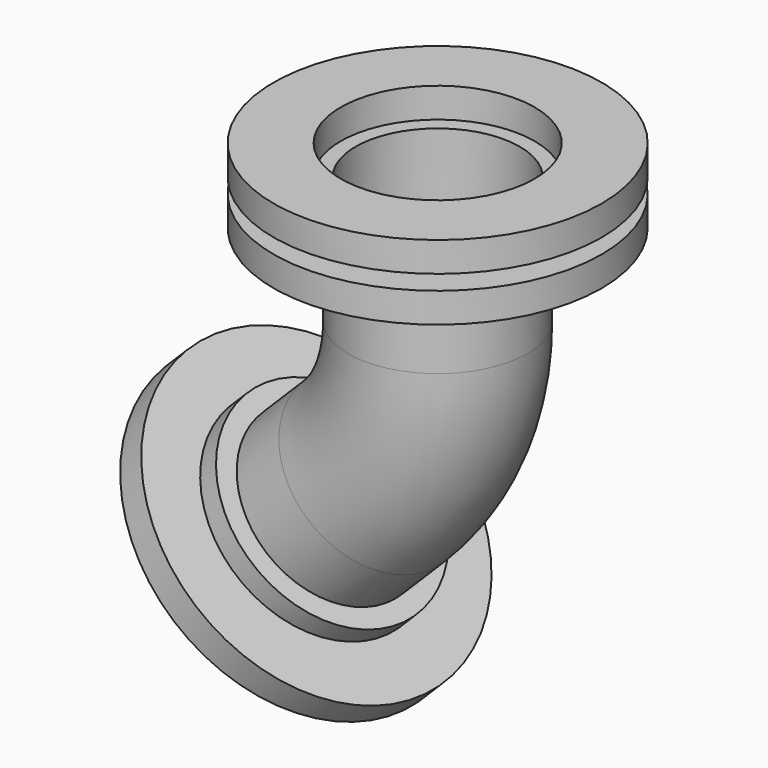
from build123d import *

# Parameters (mm, degrees)
F0_R      = 76.2
F0_R_2    = 69.85
F1_DEPTH  = 19.05
F2_R      = 139.7
F2_R_2    = 92.7084880465
F2_R_3    = 76.2
F2_R_4    = 69.85
F3_DEPTH  = 25.4
F4_DEPTH  = 19.05
F9_ANGLE  = 135
F10_R     = 82.55
F10_R_2   = 69.85
F11_DEPTH = 12.7
F12_R     = 139.7
F12_R_2   = 82.55
F13_DEPTH = 25.4


with BuildPart() as f1:
    # F0 (on Top) → F1 (new body)
    with BuildSketch(Plane.XY):
        Circle(F0_R)
        Circle(F0_R_2, mode=Mode.SUBTRACT)
    extrude(amount=F1_DEPTH)

    # F2 (on face) → F3 (join)
    with BuildSketch(Plane.XY.offset(19.05)):
        Circle(F2_R)
        Circle(F2_R_2, mode=Mode.SUBTRACT)
        Circle(F2_R_2)
        Circle(F2_R_3, mode=Mode.SUBTRACT)
        Circle(F2_R_3)
        Circle(F2_R_4, mode=Mode.SUBTRACT)
    extrude(amount=F3_DEPTH)

    # F2 (on face) → F4 (join)
    with BuildSketch(Plane.XY.offset(19.05)):
        Circle(F2_R_2)
        Circle(F2_R_3, mode=Mode.SUBTRACT)
    extrude(amount=-F4_DEPTH)


with BuildPart() as f6:
    # F6: sweep along a path in F5
    with BuildLine(Plane.XZ) as f6_path:
        Line((-89.8025612107, -216.8025612107), (-53.9362862445, -180.9362862445))
        ThreePointArc((-53.9362862445, -180.9362862445), (-14.017584088, -121.193726559), (0, -50.722572489))
        Line((0, -50.722572489), (0, 0))
    # F0 (on Top) → F6 (sweep)
    with BuildSketch(Plane.XY):
        Circle(F0_R)
        Circle(F0_R_2, mode=Mode.SUBTRACT)
    sweep(path=f6_path.line)


with BuildPart() as f8_1:
    # F8: copy of F1
    add(f1.part.moved(Location((-89.8025612107, 0, -216.8025612107))))


with BuildPart() as f8_1_1:
    # F9: moved
    add(f8_1.part.rotate(Axis((-89.8025612107, -171.9250977039, -216.8025612107), (0, -1, 0)), F9_ANGLE))


with BuildPart() as f1_1:
    add(f1.part)

    add(f6.part)  # F11 merges F6

    add(f8_1_1.part)  # F11 merges F8_1
    # F10 (on face) → F11 (join)
    with BuildSketch(Plane.XY.offset(44.45)):
        Circle(F10_R)
        Circle(F10_R_2, mode=Mode.SUBTRACT)
    extrude(amount=F11_DEPTH)

    # F12 (on face) → F13 (join)
    with BuildSketch(Plane.XY.offset(57.15)):
        Circle(F12_R)
        Circle(F12_R_2, mode=Mode.SUBTRACT)
    extrude(amount=F13_DEPTH)


solid = f1_1.part
